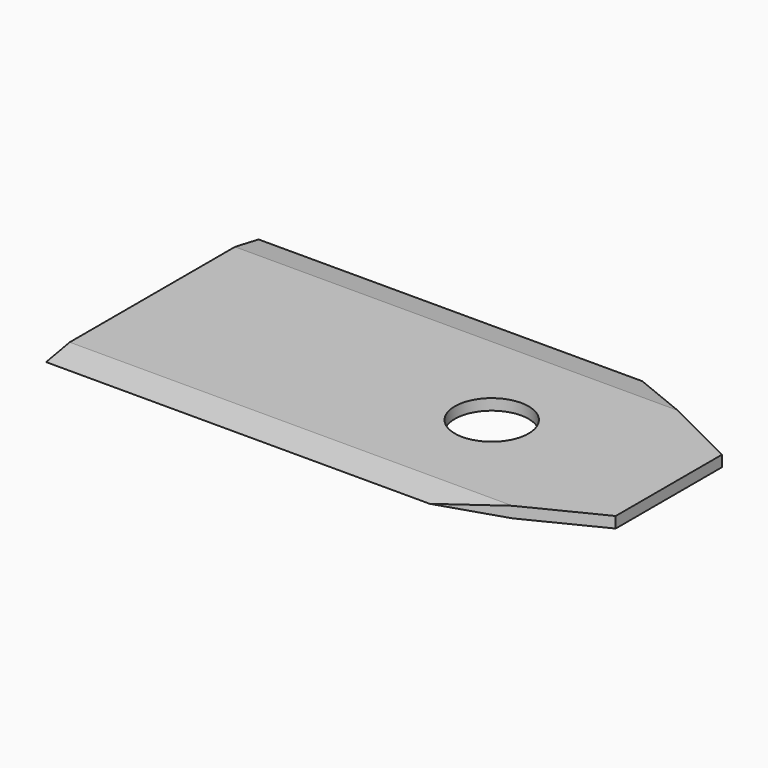
from build123d import *

# Parameters (mm, degrees)
PAD_DEPTH       = 0.75
SKETCH001_R     = 2.5
POCKET_DEPTH    = 0.751
POCKET001_DEPTH = 35.001


with BuildPart() as part:
    # Sketch (on XY_Plane of Origin) → Pad (new body)
    with BuildSketch(Plane.XY):
        Polygon((0, 0), (0, 18), (26, 18), (35, 13.5), (35, 4.5), (26, 0), align=None)
    extrude(amount=PAD_DEPTH)

    # Sketch001 (on Face8 of Pad) → Pocket (cut, through all)
    with BuildSketch(Plane.XY.offset(0.75)):
        with Locations((23, 9)):
            Circle(SKETCH001_R)
    extrude(amount=-POCKET_DEPTH, mode=Mode.SUBTRACT)

    # Sketch002 (on Face1 of Pocket) → Pocket001 (cut, through all)
    with BuildSketch(Plane(origin=(0, 0, 0), x_dir=(0, -1, 0), z_dir=(-1, 0, 0))):
        Polygon((-2, 0), (0, 0.38), (-2, 0.75), (0, 0.75), (0, 0), align=None)
        Polygon((-16, 0.75), (-18, 0.38), (-16, 0), (-18, 0), (-18, 0.75), align=None)
    extrude(amount=-POCKET001_DEPTH, mode=Mode.SUBTRACT)


solid = part.part
